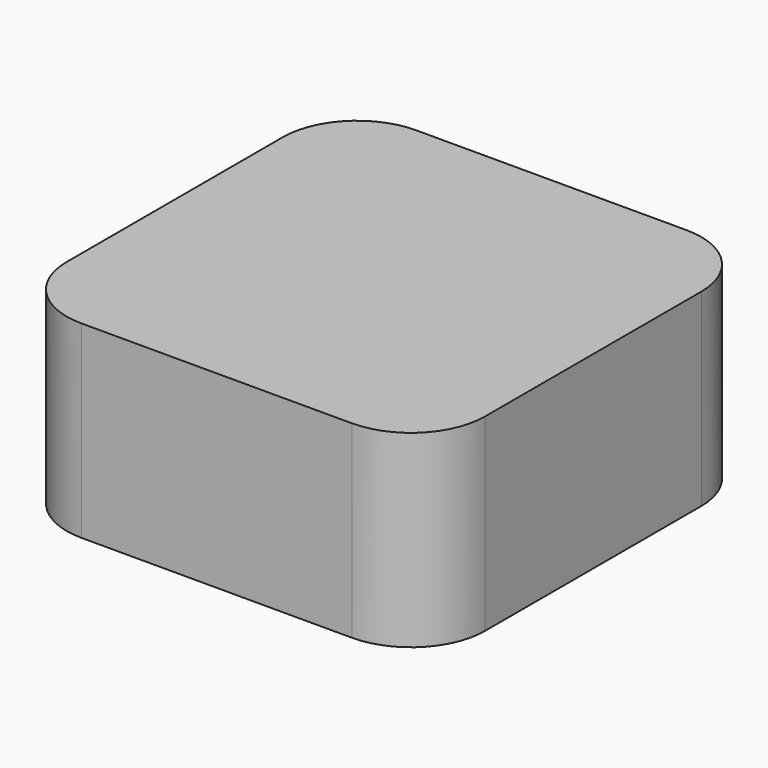
from build123d import *

# Parameters (mm, degrees)
F0_W     = 11.3
F0_H     = 11.3
F1_DEPTH = 16.4
F2_W     = 11.3
F2_H     = 11.3
F3_DEPTH = 25
F4_R     = 2


with BuildPart() as f1:
    # F0 (on Top) → F1 (new body)
    with BuildSketch(Plane.XY):
        with Locations((5.65, 5.65)):
            Rectangle(F0_W, F0_H)
    extrude(amount=F1_DEPTH)

    # F2 (on face) → F3 (cut)
    with BuildSketch(Plane(origin=(0, 0, 0), x_dir=(0, -1, 0), z_dir=(-1, 0, 0))):
        with Locations((-5.65, 5.65)):
            Rectangle(F2_W, F2_H)
    extrude(amount=-F3_DEPTH, mode=Mode.SUBTRACT)

    # F4
    f4_edges = [f1.edges().sort_by_distance(p)[0] for p in [
        (0, 0, 13.85),
        (11.3, 0, 13.85),
        (0, 11.3, 13.85),
        (11.3, 11.3, 13.85),
    ]]
    fillet(f4_edges, radius=F4_R)


solid = f1.part
